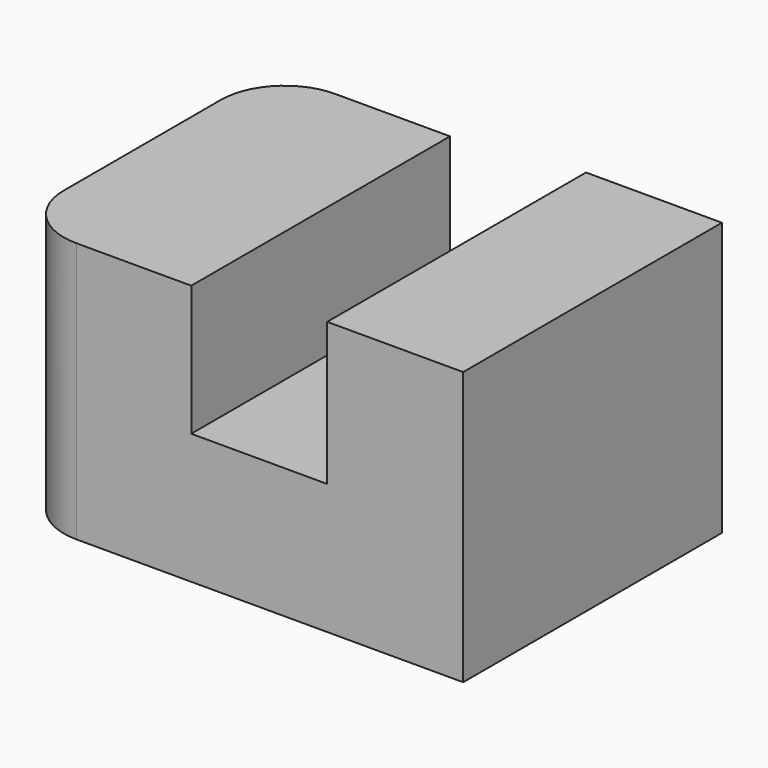
from build123d import *

# Parameters (mm, degrees)
F1_DEPTH = 73.06463
F2_W     = 90.6488774794
F2_H     = 36.532315
F3_DEPTH = 76.2
F4_W     = 38.1
F4_H     = 90.6488774794
F5_DEPTH = 40


with BuildPart() as f1:
    # F0 (on Top) → F1 (new body)
    with BuildSketch(Plane.XY):
        with BuildLine():
            Line((-68.4786736965, 31.1171887892), (-100.6505399656, 31.1171887892))
            ThreePointArc((-100.6505399656, 31.1171887892), (-113.2228985351, 25.9095473587), (-118.4305399656, 13.3371887892))
            Line((-118.4305399656, 13.3371887892), (-118.4305399656, -41.7516886902))
            ThreePointArc((-118.4305399656, -41.7516886902), (-113.2228985351, -54.3240472597), (-100.6505399656, -59.5316886902))
            Line((-100.6505399656, -59.5316886902), (-68.4786736965, -59.5316886902))
            Line((-68.4786736965, -59.5316886902), (-68.4786736965, 31.1171887892))
        make_face()
    extrude(amount=F1_DEPTH)

    # F2 (on face) → F3 (join)
    with BuildSketch(Plane.YZ.offset(-68.4786736965)):
        with Locations((-14.2072499505, 18.2661575)):
            Rectangle(F2_W, F2_H)
    extrude(amount=F3_DEPTH)

    # F4 (on face) → F5 (join)
    with BuildSketch(Plane.XY.offset(36.532315)):
        with Locations((-11.3286736965, -14.2072499505)):
            Rectangle(F4_W, F4_H)
    extrude(amount=F5_DEPTH)


solid = f1.part
